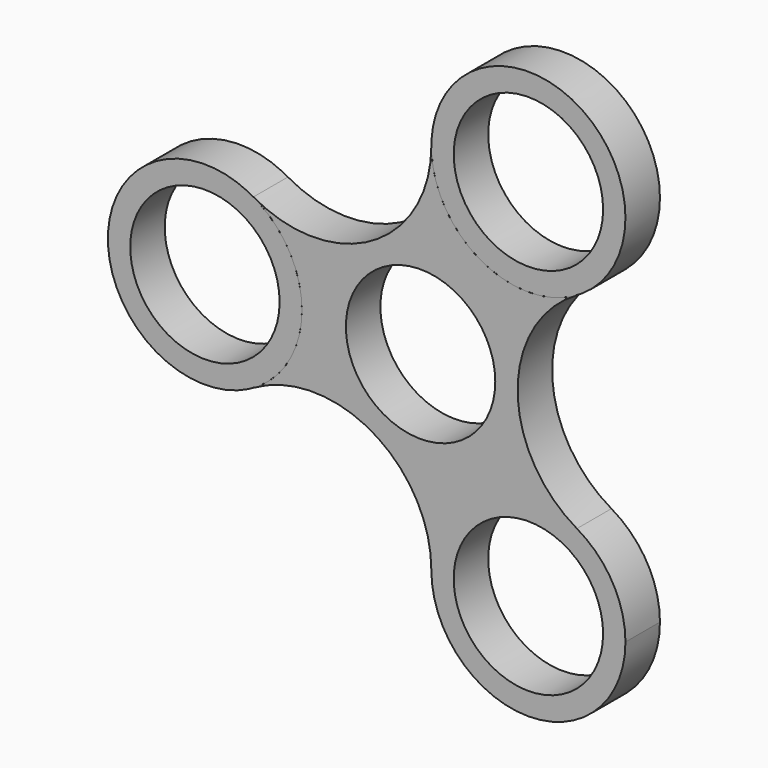
from build123d import *

# Parameters (mm, degrees)
F1_R     = 10.9982
F2_DEPTH = 6.35
F0_R     = 14.2875
F0_R_2   = 10.9982


with BuildPart() as f2:
    # F1 (on face) → F2 (new body)
    with BuildSketch(Plane.XZ):
        with BuildLine():
            ThreePointArc((-24.60625, -12.3733379566), (-7.14375, -12.3733379566), (1.5875, -27.4963065702))
            ThreePointArc((1.5875, -27.4963065702), (8.73125, -15.1229686136), (23.01875, -15.1229686136))
            ThreePointArc((23.01875, -15.1229686136), (14.2875, 0), (23.01875, 15.1229686136))
            ThreePointArc((23.01875, 15.1229686136), (8.73125, 15.1229686136), (1.5875, 27.4963065702))
            ThreePointArc((1.5875, 27.4963065702), (-7.14375, 12.3733379566), (-24.60625, 12.3733379566))
            ThreePointArc((-24.60625, 12.3733379566), (-19.3766620434, 7.14375), (-17.4625, 0))
            ThreePointArc((-17.4625, 0), (-19.3766620434, -7.14375), (-24.60625, -12.3733379566))
        make_face()
        Circle(F1_R, mode=Mode.SUBTRACT)
        with BuildLine():
            ThreePointArc((23.01875, -15.1229686136), (8.73125, -15.1229686136), (1.5875, -27.4963065702))
            ThreePointArc((1.5875, -27.4963065702), (15.875, -41.7838065702), (30.1625, -27.4963065702))
            ThreePointArc((30.1625, -27.4963065702), (28.2483379566, -20.3525565702), (23.01875, -15.1229686136))
        make_face()
        with Locations((15.875, -27.4963065702)):
            Circle(F1_R, mode=Mode.SUBTRACT)
    extrude(amount=F2_DEPTH)


with BuildPart() as f2b:
    # F0 (on Front) → F2, piece 2 (new body)
    with BuildSketch(Plane.XZ):
        with Locations((-31.75, 0)):
            Circle(F0_R)
        with Locations((-31.75, 0)):
            Circle(F0_R_2, mode=Mode.SUBTRACT)
    extrude(amount=F2_DEPTH)


with BuildPart() as f2c:
    # F0 (on Front) → F2, piece 3 (new body)
    with BuildSketch(Plane.XZ):
        with Locations((15.875, 27.4963065702)):
            Circle(F0_R)
        with Locations((15.875, 27.4963065702)):
            Circle(F0_R_2, mode=Mode.SUBTRACT)
    extrude(amount=F2_DEPTH)


solid = Compound([f2.part, f2b.part, f2c.part])
